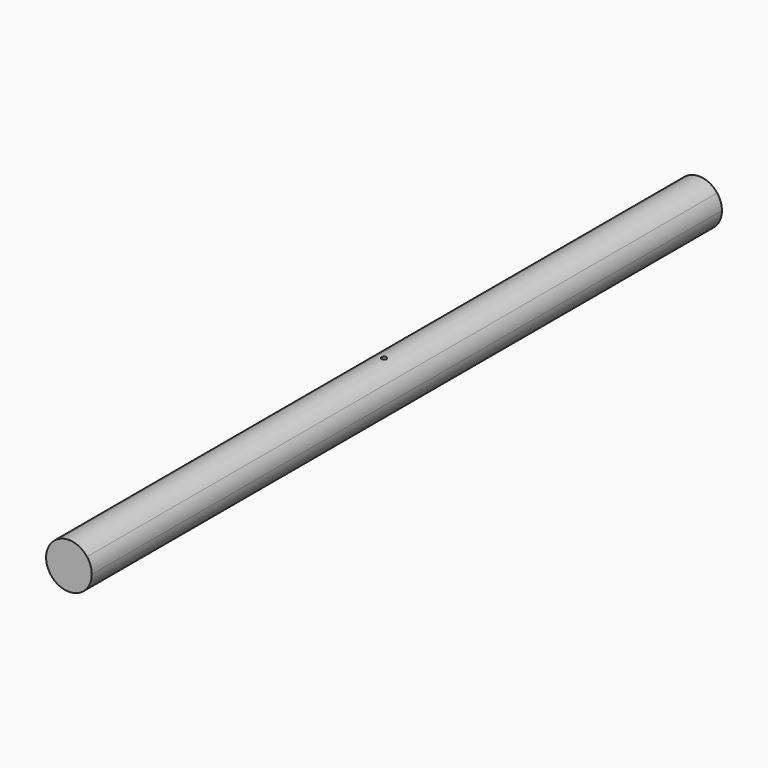
from build123d import *

# Parameters (mm, degrees)
F0_W     = 45.9264908458
F0_H     = 35.4225555062
F2_DEPTH = 1000
F4_DEPTH = 1000
F5_D     = 6.35
F5_DEPTH = 11.2897222469


with BuildPart() as f2:
    # F0 (on Front) → F2 (new body)
    with BuildSketch(Plane.XZ):
        Rectangle(F0_W, F0_H)
    extrude(amount=-F2_DEPTH)

    # F0 (on Front) → F4 (join)
    with BuildSketch(Plane.XZ):
        with BuildLine():
            ThreePointArc((22.9632454229, -17.7112777531), (27.4493544302, -9.3559040914), (29, 0))
            ThreePointArc((29, 0), (27.4493544302, 9.3559040914), (22.9632454229, 17.7112777531))
            Line((22.9632454229, 17.7112777531), (22.9632454229, -17.7112777531))
        make_face()
        with BuildLine():
            Line((-22.9632454229, 17.7112777531), (22.9632454229, 17.7112777531))
            ThreePointArc((22.9632454229, 17.7112777531), (0, 29), (-22.9632454229, 17.7112777531))
        make_face()
        Rectangle(F0_W, F0_H)
        with BuildLine():
            ThreePointArc((-22.9632454229, -17.7112777531), (0, -29), (22.9632454229, -17.7112777531))
            Line((22.9632454229, -17.7112777531), (-22.9632454229, -17.7112777531))
        make_face()
        with BuildLine():
            Line((-22.9632454229, -17.7112777531), (-22.9632454229, 17.7112777531))
            ThreePointArc((-22.9632454229, 17.7112777531), (-29, 0), (-22.9632454229, -17.7112777531))
        make_face()
    extrude(amount=-F4_DEPTH)

    # F5 (through all, one way)
    with BuildSketch(Plane(origin=(0, 0, 17.7112777531), x_dir=(1, 0, 0), z_dir=(0, 0, -1))):
        with Locations((0, -500)):
            Circle(F5_D / 2)
    extrude(amount=-F5_DEPTH, mode=Mode.SUBTRACT)


solid = f2.part
